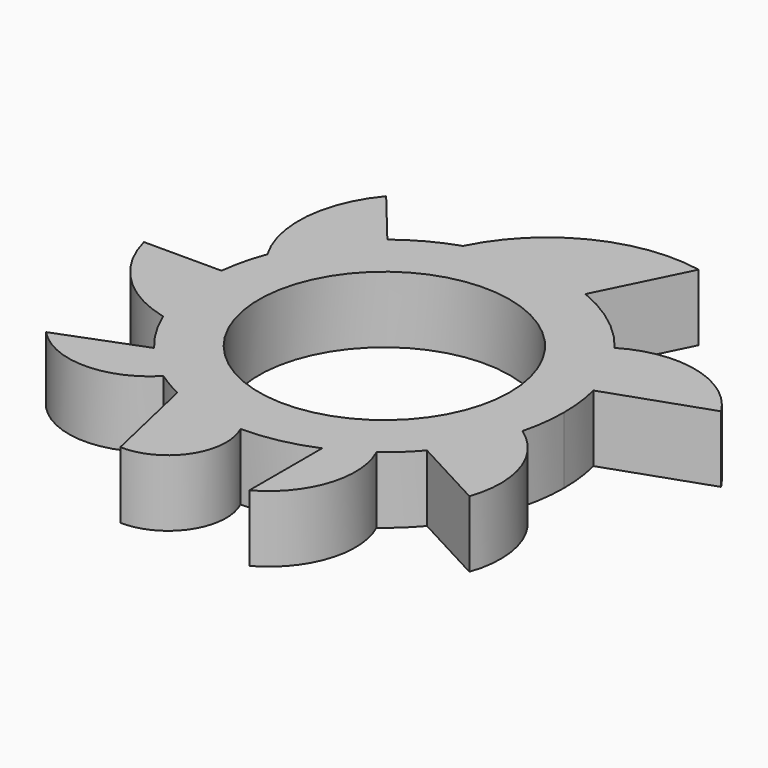
from build123d import *

# Parameters (mm, degrees)
F0_R     = 13.2
F1_DEPTH = 7


with BuildPart() as f1:
    # F0 (on Top) → F1 (new body)
    with BuildSketch(Plane.XY):
        with BuildLine():
            ThreePointArc((18.310132, -4.740264), (18.76226, -2.389272), (18.913779, 0))
            ThreePointArc((18.913779, 0), (18.775293, 2.284599), (18.361864, 4.535742))
            ThreePointArc((18.361864, 4.535742), (17.037777, 8.212501), (14.986336, 11.538663))
            ThreePointArc((14.986336, 11.538663), (11.456299, 15.049393), (7.13248, 17.517384))
            ThreePointArc((7.13248, 17.517384), (0.571768, 18.905134), (-6.060819, 17.916403))
            ThreePointArc((-6.060819, 17.916403), (-8.967974, 16.652521), (-11.623212, 14.920857))
            ThreePointArc((-11.623212, 14.920857), (-15.214001, 11.236778), (-17.679205, 6.721363))
            ThreePointArc((-17.679205, 6.721363), (-18.38519, 4.440249), (-18.798132, 2.088361))
            ThreePointArc((-18.798132, 2.088361), (-18.725211, -2.664116), (-17.469759, -7.248349))
            ThreePointArc((-17.469759, -7.248349), (-16.186317, -9.784385), (-14.537336, -12.099458))
            ThreePointArc((-14.537336, -12.099458), (-12.794361, -13.929657), (-10.822932, -15.51113))
            ThreePointArc((-10.822932, -15.51113), (-9.4883, -16.361638), (-8.087237, -17.097591))
            ThreePointArc((-8.087237, -17.097591), (-4.144332, -18.454147), (0, -18.913779))
            ThreePointArc((0, -18.913779), (3.76722, -18.534807), (7.383474, -17.41308))
            ThreePointArc((7.383474, -17.41308), (9.410528, -16.406492), (11.302837, -15.164989))
            ThreePointArc((11.302837, -15.164989), (12.902521, -13.829533), (14.345584, -12.326202))
            ThreePointArc((14.345584, -12.326202), (16.762624, -8.760449), (18.310132, -4.740264))
        make_face()
        Circle(F0_R, mode=Mode.SUBTRACT)
        with BuildLine():
            ThreePointArc((14.986336, 11.538663), (17.037777, 8.212501), (18.361864, 4.535742))
            Line((18.361864, 4.535742), (28.862666, 8.188942))
            ThreePointArc((28.862666, 8.188942), (22.606509, 12.689041), (14.986336, 11.538663))
        make_face()
        with BuildLine():
            ThreePointArc((22.15042, -16.512131), (22.234177, -9.972473), (18.310132, -4.740264))
            ThreePointArc((18.310132, -4.740264), (16.762624, -8.760449), (14.345584, -12.326202))
            Line((14.345584, -12.326202), (22.15042, -16.512131))
        make_face()
        with BuildLine():
            ThreePointArc((-6.060819, 17.916403), (0.571768, 18.905134), (7.13248, 17.517384))
            Line((7.13248, 17.517384), (11.679311, 26.714748))
            ThreePointArc((11.679311, 26.714748), (1.325059, 25.308147), (-6.060819, 17.916403))
        make_face()
        with BuildLine():
            ThreePointArc((7.383474, -26.983239), (11.671181, -21.846172), (11.302837, -15.164989))
            ThreePointArc((11.302837, -15.164989), (9.410528, -16.406492), (7.383474, -17.41308))
            Line((7.383474, -17.41308), (7.383474, -26.983239))
        make_face()
        with BuildLine():
            ThreePointArc((-17.679205, 6.721363), (-15.214001, 11.236778), (-11.623212, 14.920857))
            Line((-11.623212, 14.920857), (-16.517041, 20.883616))
            ThreePointArc((-16.517041, 20.883616), (-19.358616, 13.987987), (-17.679205, 6.721363))
        make_face()
        with BuildLine():
            ThreePointArc((-5.681629, -27.615353), (-0.414558, -24.848773), (0, -18.913779))
            ThreePointArc((0, -18.913779), (-4.144332, -18.454147), (-8.087237, -17.097591))
            Line((-8.087237, -17.097591), (-5.681629, -27.615353))
        make_face()
        with BuildLine():
            ThreePointArc((-17.469759, -7.248349), (-18.725211, -2.664116), (-18.798132, 2.088361))
            Line((-18.798132, 2.088361), (-26.958849, 2.088361))
            ThreePointArc((-26.958849, 2.088361), (-23.510173, -3.897012), (-17.469759, -7.248349))
        make_face()
        with BuildLine():
            ThreePointArc((-23.224378, -15.438171), (-17.039334, -18.139689), (-10.822932, -15.51113))
            ThreePointArc((-10.822932, -15.51113), (-12.794361, -13.929657), (-14.537336, -12.099458))
            Line((-14.537336, -12.099458), (-23.224378, -15.438171))
        make_face()
    extrude(amount=F1_DEPTH)


solid = f1.part
